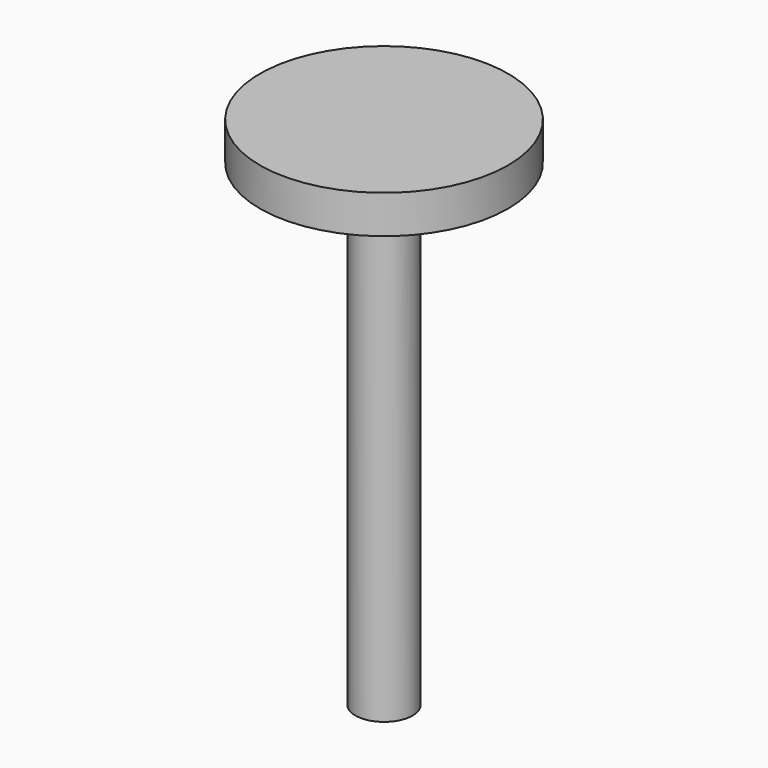
from build123d import *

# Parameters (mm, degrees)
F0_R     = 1.5
F1_DEPTH = 25
F2_R     = 6.5
F2_R_2   = 1.5
F3_DEPTH = 2


with BuildPart() as f1:
    # F0 (on Top) → F1 (new body)
    with BuildSketch(Plane.XY):
        Circle(F0_R)
    extrude(amount=F1_DEPTH)

    # F2 (on face) → F3 (join)
    with BuildSketch(Plane.XY.offset(25)):
        Circle(F2_R)
        Circle(F2_R_2, mode=Mode.SUBTRACT)
        Circle(F2_R_2)
    extrude(amount=F3_DEPTH)


solid = f1.part
